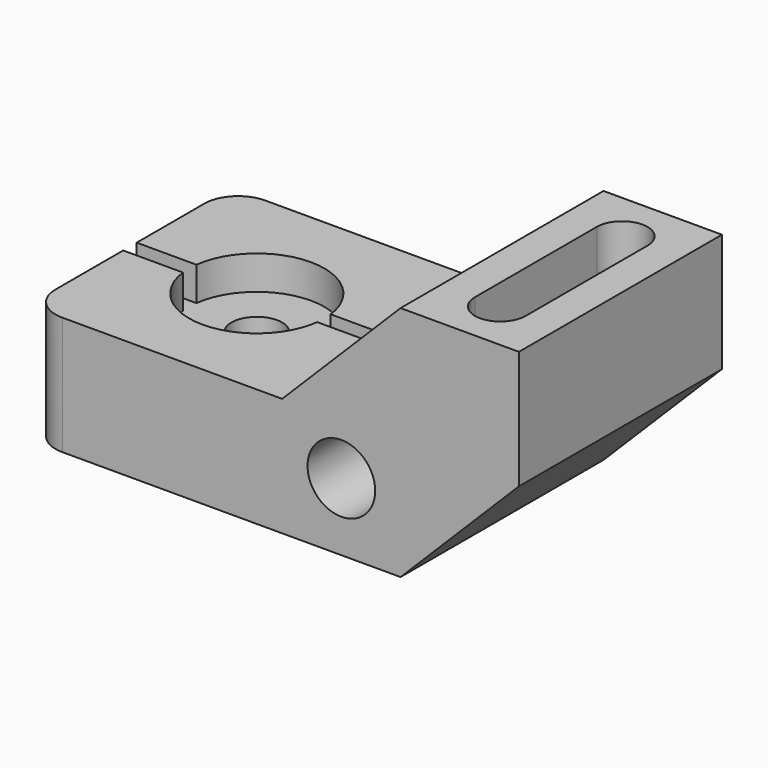
from build123d import *

# Parameters (mm, degrees)
F0_R           = 10.16
F1_DEPTH       = 76.2
F3_D           = 15.24
F3_CBORE_D     = 40.64
F3_CBORE_DEPTH = 10.16
F2_W           = 76.2
F2_H           = 5.08
F4_DEPTH       = 10.16
F5_R           = 10.16
F7_DEPTH       = 27.94


with BuildPart() as f1:
    # F0 (on Front) → F1 (new body)
    with BuildSketch(Plane.XZ):
        Polygon((0, 35.56), (0, 0), (111.76, 0), (147.32, 35.56), (147.32, 71.12), (111.76, 71.12), (76.2, 35.56), align=None)
        with Locations((93.98, 20.32)):
            Circle(F0_R, mode=Mode.SUBTRACT)
    extrude(amount=F1_DEPTH)

    # F3 (through all)
    with Locations(Plane.XY.offset(35.56)):
        with Locations((38.1, -38.1)):
            CounterBoreHole(F3_D / 2, F3_CBORE_D / 2, F3_CBORE_DEPTH)

    # F2 (on face) → F4 (cut)
    with BuildSketch(Plane.XY.offset(35.56)):
        with Locations((38.1, -38.1)):
            Rectangle(F2_W, F2_H)
    extrude(amount=-F4_DEPTH, mode=Mode.SUBTRACT)

    # F5
    f5_edges = [f1.edges().sort_by_distance(p)[0] for p in [
        (0, -76.2, 17.78),
        (0, 0, 17.78),
    ]]
    fillet(f5_edges, radius=F5_R)

    # F6 (on face) → F7 (cut)
    with BuildSketch(Plane.XY.offset(71.12)):
        with BuildLine():
            ThreePointArc((137.16, -15.24), (129.54, -7.62), (121.92, -15.24))
            Line((121.92, -15.24), (121.92, -60.96))
            ThreePointArc((121.92, -60.96), (129.54, -68.58), (137.16, -60.96))
            Line((137.16, -60.96), (137.16, -15.24))
        make_face()
    extrude(amount=-F7_DEPTH, mode=Mode.SUBTRACT)


solid = f1.part
